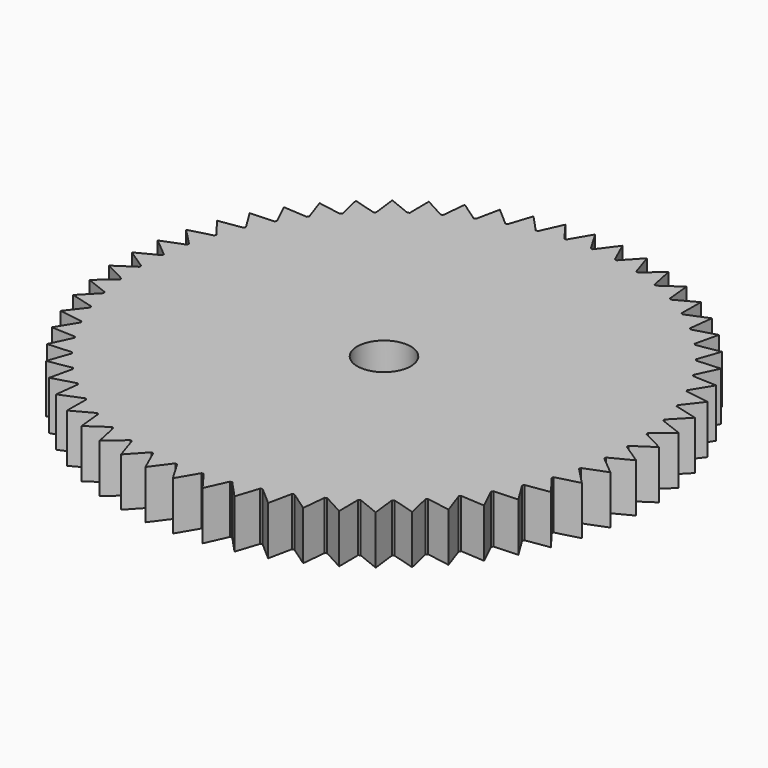
from build123d import *

# Parameters (mm, degrees)
F1_DEPTH = 5.08
F2_R     = 2.794
F3_DEPTH = 5.08
F4_R     = 4.445
F4_R_2   = 2.794
F5_DEPTH = 7.5692


with BuildPart() as f1:
    # F0 (on Top) → F1 (new body)
    with BuildSketch(Plane.XY):
        with BuildLine():
            Line((-18.931107, -19.985326), (-16.523704, -19.290599))
            ThreePointArc((-16.523704, -19.290599), (-17.467566, -18.440285), (-18.367732, -17.543842))
            Line((-18.367732, -17.543842), (-18.931107, -19.985326))
        make_face()
        with BuildLine():
            Line((-16.659338, -21.914984), (-14.341161, -20.964043))
            ThreePointArc((-14.341161, -20.964043), (-15.371425, -20.220764), (-16.363237, -19.426901))
            Line((-16.363237, -19.426901), (-16.659338, -21.914984))
        make_face()
        with BuildLine():
            Line((2.976319, -27.366797), (4.005343, -25.082209))
            ThreePointArc((4.005343, -25.082209), (2.746223, -25.251104), (1.480233, -25.356832))
            Line((1.480233, -25.356832), (2.976319, -27.366797))
        make_face()
        with BuildLine():
            ThreePointArc((-25.399782, 0.105271), (-25.362749, 1.375128), (-25.262269, 2.641546))
            Line((-25.262269, 2.641546), (-27.487796, 1.490345))
            Line((-27.487796, 1.490345), (-25.399782, 0.105271))
        make_face()
        with BuildLine():
            ThreePointArc((-20.156883, 15.455098), (-19.358916, 16.443612), (-18.512522, 17.39099))
            Line((-18.512522, 17.39099), (-20.980926, 17.821359))
            Line((-20.980926, 17.821359), (-20.156883, 15.455098))
        make_face()
        with BuildLine():
            ThreePointArc((-4.005343, 25.082209), (-2.746223, 25.251104), (-1.480233, 25.356832))
            Line((-1.480233, 25.356832), (-2.976319, 27.366797))
            Line((-2.976319, 27.366797), (-4.005343, 25.082209))
        make_face()
        with BuildLine():
            ThreePointArc((1.480233, 25.356832), (2.746223, 25.251104), (4.005343, 25.082209))
            Line((4.005343, 25.082209), (2.976319, 27.366797))
            Line((2.976319, 27.366797), (1.480233, 25.356832))
        make_face()
        with BuildLine():
            Line((8.789786, -26.087156), (9.303634, -23.634771))
            ThreePointArc((9.303634, -23.634771), (8.110259, -24.070391), (6.896595, -24.445797))
            Line((6.896595, -24.445797), (8.789786, -26.087156))
        make_face()
        with BuildLine():
            Line((-27.165527, -4.453562), (-24.828579, -5.357393))
            ThreePointArc((-24.828579, -5.357393), (-25.065394, -4.109263), (-25.239505, -2.850853))
            Line((-25.239505, -2.850853), (-27.165527, -4.453562))
        make_face()
        with BuildLine():
            ThreePointArc((-6.693728, 24.502123), (-5.460249, 24.806162), (-4.213111, 25.048147))
            Line((-4.213111, 25.048147), (-5.917743, 26.884575))
            Line((-5.917743, 26.884575), (-6.693728, 24.502123))
        make_face()
        with BuildLine():
            Line((14.192254, -23.587709), (14.166898, -21.082197))
            ThreePointArc((14.166898, -21.082197), (13.095068, -21.764172), (11.99048, -22.391703))
            Line((11.99048, -22.391703), (14.192254, -23.587709))
        make_face()
        with BuildLine():
            ThreePointArc((25.262269, 2.641546), (25.362749, 1.375128), (25.399782, 0.105271))
            Line((25.399782, 0.105271), (27.487796, 1.490345))
            Line((27.487796, 1.490345), (25.262269, 2.641546))
        make_face()
        with BuildLine():
            ThreePointArc((24.103797, 8.010429), (24.47417, 6.79522), (24.783319, 5.563012))
            Line((24.783319, 5.563012), (26.524767, 7.364565))
            Line((26.524767, 7.364565), (24.103797, 8.010429))
        make_face()
        with BuildLine():
            ThreePointArc((20.284297, 15.287488), (21.023301, 14.254151), (21.709713, 13.185158))
            Line((21.709713, 13.185158), (22.784762, 15.448452))
            Line((22.784762, 15.448452), (20.284297, 15.287488))
        make_face()
        with BuildLine():
            ThreePointArc((14.341161, 20.964043), (15.371425, 20.220764), (16.363237, 19.426901))
            Line((16.363237, 19.426901), (16.659338, 21.914984))
            Line((16.659338, 21.914984), (14.341161, 20.964043))
        make_face()
        with BuildLine():
            ThreePointArc((9.499223, 23.556841), (10.665183, 23.052416), (11.804464, 22.490323))
            Line((11.804464, 22.490323), (11.558778, 24.983889))
            Line((11.558778, 24.983889), (9.499223, 23.556841))
        make_face()
        with BuildLine():
            ThreePointArc((6.896595, 24.445797), (8.110259, 24.070391), (9.303634, 23.634771))
            Line((9.303634, 23.634771), (8.789786, 26.087156))
            Line((8.789786, 26.087156), (6.896595, 24.445797))
        make_face()
        with BuildLine():
            Line((-14.192254, -23.587709), (-11.99048, -22.391703))
            ThreePointArc((-11.99048, -22.391703), (-13.095068, -21.764172), (-14.166898, -21.082197))
            Line((-14.166898, -21.082197), (-14.192254, -23.587709))
        make_face()
        with BuildLine():
            Line((26.524767, -7.364565), (24.783319, -5.563012))
            ThreePointArc((24.783319, -5.563012), (24.47417, -6.79522), (24.103797, -8.010429))
            Line((24.103797, -8.010429), (26.524767, -7.364565))
        make_face()
        with BuildLine():
            Line((-11.558778, -24.983889), (-9.499223, -23.556841))
            ThreePointArc((-9.499223, -23.556841), (-10.665183, -23.052416), (-11.804464, -22.490323))
            Line((-11.804464, -22.490323), (-11.558778, -24.983889))
        make_face()
        with BuildLine():
            ThreePointArc((-21.709713, 13.185158), (-21.023301, 14.254151), (-20.284297, 15.287488))
            Line((-20.284297, 15.287488), (-22.784762, 15.448452))
            Line((-22.784762, 15.448452), (-21.709713, 13.185158))
        make_face()
        with BuildLine():
            ThreePointArc((-9.303634, 23.634771), (-8.110259, 24.070391), (-6.896595, 24.445797))
            Line((-6.896595, 24.445797), (-8.789786, 26.087156))
            Line((-8.789786, 26.087156), (-9.303634, 23.634771))
        make_face()
        with BuildLine():
            ThreePointArc((-1.27, 25.36823), (0, 25.4), (1.27, 25.36823))
            Line((1.27, 25.36823), (0, 27.528169))
            Line((0, 27.528169), (-1.27, 25.36823))
        make_face()
        with BuildLine():
            Line((16.659338, -21.914984), (16.363237, -19.426901))
            ThreePointArc((16.363237, -19.426901), (15.371425, -20.220764), (14.341161, -20.964043))
            Line((14.341161, -20.964043), (16.659338, -21.914984))
        make_face()
        with BuildLine():
            Line((-24.321469, -12.894427), (-21.818258, -13.004753))
            ThreePointArc((-21.818258, -13.004753), (-22.441206, -11.897574), (-23.008016, -10.760633))
            Line((-23.008016, -10.760633), (-24.321469, -12.894427))
        make_face()
        with BuildLine():
            ThreePointArc((24.828579, 5.357393), (25.065394, 4.109263), (25.239505, 2.850853))
            Line((25.239505, 2.850853), (27.165527, 4.453562))
            Line((27.165527, 4.453562), (24.828579, 5.357393))
        make_face()
        with BuildLine():
            Line((27.165527, -4.453562), (25.239505, -2.850853))
            ThreePointArc((25.239505, -2.850853), (25.065394, -4.109263), (24.828579, -5.357393))
            Line((24.828579, -5.357393), (27.165527, -4.453562))
        make_face()
        with BuildLine():
            ThreePointArc((21.818258, 13.004753), (22.441206, 11.897574), (23.008016, 10.760633))
            Line((23.008016, 10.760633), (24.321469, 12.894427))
            Line((24.321469, 12.894427), (21.818258, 13.004753))
        make_face()
        with BuildLine():
            Line((-8.789786, -26.087156), (-6.896595, -24.445797))
            ThreePointArc((-6.896595, -24.445797), (-8.110259, -24.070391), (-9.303634, -23.634771))
            Line((-9.303634, -23.634771), (-8.789786, -26.087156))
        make_face()
        with BuildLine():
            ThreePointArc((16.523704, 19.290599), (17.467566, 18.440285), (18.367732, 17.543842))
            Line((18.367732, 17.543842), (18.931107, 19.985326))
            Line((18.931107, 19.985326), (16.523704, 19.290599))
        make_face()
        with BuildLine():
            ThreePointArc((11.99048, 22.391703), (13.095068, 21.764172), (14.166898, 21.082197))
            Line((14.166898, 21.082197), (14.192254, 23.587709))
            Line((14.192254, 23.587709), (11.99048, 22.391703))
        make_face()
        with BuildLine():
            ThreePointArc((-11.804464, 22.490323), (-10.665183, 23.052416), (-9.499223, 23.556841))
            Line((-9.499223, 23.556841), (-11.558778, 24.983889))
            Line((-11.558778, 24.983889), (-11.804464, 22.490323))
        make_face()
        with BuildLine():
            Line((18.931107, -19.985326), (18.367732, -17.543842))
            ThreePointArc((18.367732, -17.543842), (17.467566, -18.440285), (16.523704, -19.290599))
            Line((16.523704, -19.290599), (18.931107, -19.985326))
        make_face()
        with BuildLine():
            Line((-22.784762, -15.448452), (-20.284297, -15.287488))
            ThreePointArc((-20.284297, -15.287488), (-21.023301, -14.254151), (-21.709713, -13.185158))
            Line((-21.709713, -13.185158), (-22.784762, -15.448452))
        make_face()
        with BuildLine():
            ThreePointArc((4.213111, 25.048147), (5.460249, 24.806162), (6.693728, 24.502123))
            Line((6.693728, 24.502123), (5.917743, 26.884575))
            Line((5.917743, 26.884575), (4.213111, 25.048147))
        make_face()
        with BuildLine():
            Line((-26.524767, -7.364565), (-24.103797, -8.010429))
            ThreePointArc((-24.103797, -8.010429), (-24.47417, -6.79522), (-24.783319, -5.563012))
            Line((-24.783319, -5.563012), (-26.524767, -7.364565))
        make_face()
        with BuildLine():
            Line((27.487796, -1.490345), (25.399782, -0.105271))
            ThreePointArc((25.399782, -0.105271), (25.362749, -1.375128), (25.262269, -2.641546))
            Line((25.262269, -2.641546), (27.487796, -1.490345))
        make_face()
        with BuildLine():
            Line((24.321469, -12.894427), (23.008016, -10.760633))
            ThreePointArc((23.008016, -10.760633), (22.441206, -11.897574), (21.818258, -13.004753))
            Line((21.818258, -13.004753), (24.321469, -12.894427))
        make_face()
        with BuildLine():
            ThreePointArc((-18.367732, 17.543842), (-17.467566, 18.440285), (-16.523704, 19.290599))
            Line((-16.523704, 19.290599), (-18.931107, 19.985326))
            Line((-18.931107, 19.985326), (-18.367732, 17.543842))
        make_face()
        with BuildLine():
            ThreePointArc((-24.783319, 5.563012), (-24.47417, 6.79522), (-24.103797, 8.010429))
            Line((-24.103797, 8.010429), (-26.524767, 7.364565))
            Line((-26.524767, 7.364565), (-24.783319, 5.563012))
        make_face()
        with BuildLine():
            Line((-2.976319, -27.366797), (-1.480233, -25.356832))
            ThreePointArc((-1.480233, -25.356832), (-2.746223, -25.251104), (-4.005343, -25.082209))
            Line((-4.005343, -25.082209), (-2.976319, -27.366797))
        make_face()
        with BuildLine():
            ThreePointArc((25.399782, -0.105271), (25.399945, -0.052636), (25.4, 0))
            ThreePointArc((25.4, 0), (25.399945, 0.052636), (25.399782, 0.105271))
            ThreePointArc((25.399782, 0.105271), (25.362749, 1.375128), (25.262269, 2.641546))
            ThreePointArc((25.262269, 2.641546), (25.251104, 2.746223), (25.239505, 2.850853))
            ThreePointArc((25.239505, 2.850853), (25.065394, 4.109263), (24.828579, 5.357393))
            ThreePointArc((24.828579, 5.357393), (24.806162, 5.460249), (24.783319, 5.563012))
            ThreePointArc((24.783319, 5.563012), (24.47417, 6.79522), (24.103797, 8.010429))
            ThreePointArc((24.103797, 8.010429), (24.070391, 8.110259), (24.036571, 8.209949))
            ThreePointArc((24.036571, 8.209949), (23.596009, 9.401509), (23.09642, 10.56955))
            ThreePointArc((23.09642, 10.56955), (23.052416, 10.665183), (23.008016, 10.760633))
            ThreePointArc((23.008016, 10.760633), (22.441206, 11.897574), (21.818258, 13.004753))
            ThreePointArc((21.818258, 13.004753), (21.764172, 13.095068), (21.709713, 13.185158))
            ThreePointArc((21.709713, 13.185158), (21.023301, 14.254151), (20.284297, 15.287488))
            ThreePointArc((20.284297, 15.287488), (20.220764, 15.371425), (20.156883, 15.455098))
            ThreePointArc((20.156883, 15.455098), (19.358916, 16.443612), (18.512522, 17.39099))
            ThreePointArc((18.512522, 17.39099), (18.440285, 17.467566), (18.367732, 17.543842))
            ThreePointArc((18.367732, 17.543842), (17.467566, 18.440285), (16.523704, 19.290599))
            ThreePointArc((16.523704, 19.290599), (16.443612, 19.358916), (16.363237, 19.426901))
            ThreePointArc((16.363237, 19.426901), (15.371425, 20.220764), (14.341161, 20.964043))
            ThreePointArc((14.341161, 20.964043), (14.254151, 21.023301), (14.166898, 21.082197))
            ThreePointArc((14.166898, 21.082197), (13.095068, 21.764172), (11.99048, 22.391703))
            ThreePointArc((11.99048, 22.391703), (11.897574, 22.441206), (11.804464, 22.490323))
            ThreePointArc((11.804464, 22.490323), (10.665183, 23.052416), (9.499223, 23.556841))
            ThreePointArc((9.499223, 23.556841), (9.401509, 23.596009), (9.303634, 23.634771))
            ThreePointArc((9.303634, 23.634771), (8.110259, 24.070391), (6.896595, 24.445797))
            ThreePointArc((6.896595, 24.445797), (6.79522, 24.47417), (6.693728, 24.502123))
            ThreePointArc((6.693728, 24.502123), (5.460249, 24.806162), (4.213111, 25.048147))
            ThreePointArc((4.213111, 25.048147), (4.109263, 25.065394), (4.005343, 25.082209))
            ThreePointArc((4.005343, 25.082209), (2.746223, 25.251104), (1.480233, 25.356832))
            ThreePointArc((1.480233, 25.356832), (1.375128, 25.362749), (1.27, 25.36823))
            ThreePointArc((1.27, 25.36823), (0, 25.4), (-1.27, 25.36823))
            ThreePointArc((-1.27, 25.36823), (-1.375128, 25.362749), (-1.480233, 25.356832))
            ThreePointArc((-1.480233, 25.356832), (-2.746223, 25.251104), (-4.005343, 25.082209))
            ThreePointArc((-4.005343, 25.082209), (-4.109263, 25.065394), (-4.213111, 25.048147))
            ThreePointArc((-4.213111, 25.048147), (-5.460249, 24.806162), (-6.693728, 24.502123))
            ThreePointArc((-6.693728, 24.502123), (-6.79522, 24.47417), (-6.896595, 24.445797))
            ThreePointArc((-6.896595, 24.445797), (-8.110259, 24.070391), (-9.303634, 23.634771))
            ThreePointArc((-9.303634, 23.634771), (-9.401509, 23.596009), (-9.499223, 23.556841))
            ThreePointArc((-9.499223, 23.556841), (-10.665183, 23.052416), (-11.804464, 22.490323))
            ThreePointArc((-11.804464, 22.490323), (-11.897574, 22.441206), (-11.99048, 22.391703))
            ThreePointArc((-11.99048, 22.391703), (-13.095068, 21.764172), (-14.166898, 21.082197))
            ThreePointArc((-14.166898, 21.082197), (-14.254151, 21.023301), (-14.341161, 20.964043))
            ThreePointArc((-14.341161, 20.964043), (-15.371425, 20.220764), (-16.363237, 19.426901))
            ThreePointArc((-16.363237, 19.426901), (-16.443612, 19.358916), (-16.523704, 19.290599))
            ThreePointArc((-16.523704, 19.290599), (-17.467566, 18.440285), (-18.367732, 17.543842))
            ThreePointArc((-18.367732, 17.543842), (-18.440285, 17.467566), (-18.512522, 17.39099))
            ThreePointArc((-18.512522, 17.39099), (-19.358916, 16.443612), (-20.156883, 15.455098))
            ThreePointArc((-20.156883, 15.455098), (-20.220764, 15.371425), (-20.284297, 15.287488))
            ThreePointArc((-20.284297, 15.287488), (-21.023301, 14.254151), (-21.709713, 13.185158))
            ThreePointArc((-21.709713, 13.185158), (-21.764172, 13.095068), (-21.818258, 13.004753))
            ThreePointArc((-21.818258, 13.004753), (-22.441206, 11.897574), (-23.008016, 10.760633))
            ThreePointArc((-23.008016, 10.760633), (-23.052416, 10.665183), (-23.09642, 10.56955))
            ThreePointArc((-23.09642, 10.56955), (-23.596009, 9.401509), (-24.036571, 8.209949))
            ThreePointArc((-24.036571, 8.209949), (-24.070391, 8.110259), (-24.103797, 8.010429))
            ThreePointArc((-24.103797, 8.010429), (-24.47417, 6.79522), (-24.783319, 5.563012))
            ThreePointArc((-24.783319, 5.563012), (-24.806162, 5.460249), (-24.828579, 5.357393))
            ThreePointArc((-24.828579, 5.357393), (-25.065394, 4.109263), (-25.239505, 2.850853))
            ThreePointArc((-25.239505, 2.850853), (-25.251104, 2.746223), (-25.262269, 2.641546))
            ThreePointArc((-25.262269, 2.641546), (-25.362749, 1.375128), (-25.399782, 0.105271))
            ThreePointArc((-25.399782, 0.105271), (-25.4, 0), (-25.399782, -0.105271))
            ThreePointArc((-25.399782, -0.105271), (-25.362749, -1.375128), (-25.262269, -2.641546))
            ThreePointArc((-25.262269, -2.641546), (-25.251104, -2.746223), (-25.239505, -2.850853))
            ThreePointArc((-25.239505, -2.850853), (-25.065394, -4.109263), (-24.828579, -5.357393))
            ThreePointArc((-24.828579, -5.357393), (-24.806162, -5.460249), (-24.783319, -5.563012))
            ThreePointArc((-24.783319, -5.563012), (-24.47417, -6.79522), (-24.103797, -8.010429))
            ThreePointArc((-24.103797, -8.010429), (-24.070391, -8.110259), (-24.036571, -8.209949))
            ThreePointArc((-24.036571, -8.209949), (-23.596009, -9.401509), (-23.09642, -10.56955))
            ThreePointArc((-23.09642, -10.56955), (-23.052416, -10.665183), (-23.008016, -10.760633))
            ThreePointArc((-23.008016, -10.760633), (-22.441206, -11.897574), (-21.818258, -13.004753))
            ThreePointArc((-21.818258, -13.004753), (-21.764172, -13.095068), (-21.709713, -13.185158))
            ThreePointArc((-21.709713, -13.185158), (-21.023301, -14.254151), (-20.284297, -15.287488))
            ThreePointArc((-20.284297, -15.287488), (-20.220764, -15.371425), (-20.156883, -15.455098))
            ThreePointArc((-20.156883, -15.455098), (-19.358916, -16.443612), (-18.512522, -17.39099))
            ThreePointArc((-18.512522, -17.39099), (-18.440285, -17.467566), (-18.367732, -17.543842))
            ThreePointArc((-18.367732, -17.543842), (-17.467566, -18.440285), (-16.523704, -19.290599))
            ThreePointArc((-16.523704, -19.290599), (-16.443612, -19.358916), (-16.363237, -19.426901))
            ThreePointArc((-16.363237, -19.426901), (-15.371425, -20.220764), (-14.341161, -20.964043))
            ThreePointArc((-14.341161, -20.964043), (-14.254151, -21.023301), (-14.166898, -21.082197))
            ThreePointArc((-14.166898, -21.082197), (-13.095068, -21.764172), (-11.99048, -22.391703))
            ThreePointArc((-11.99048, -22.391703), (-11.897574, -22.441206), (-11.804464, -22.490323))
            ThreePointArc((-11.804464, -22.490323), (-10.665183, -23.052416), (-9.499223, -23.556841))
            ThreePointArc((-9.499223, -23.556841), (-9.401509, -23.596009), (-9.303634, -23.634771))
            ThreePointArc((-9.303634, -23.634771), (-8.110259, -24.070391), (-6.896595, -24.445797))
            ThreePointArc((-6.896595, -24.445797), (-6.79522, -24.47417), (-6.693728, -24.502123))
            ThreePointArc((-6.693728, -24.502123), (-5.460249, -24.806162), (-4.213111, -25.048147))
            ThreePointArc((-4.213111, -25.048147), (-4.109263, -25.065394), (-4.005343, -25.082209))
            ThreePointArc((-4.005343, -25.082209), (-2.746223, -25.251104), (-1.480233, -25.356832))
            ThreePointArc((-1.480233, -25.356832), (-1.375128, -25.362749), (-1.27, -25.36823))
            ThreePointArc((-1.27, -25.36823), (0, -25.4), (1.27, -25.36823))
            ThreePointArc((1.27, -25.36823), (1.375128, -25.362749), (1.480233, -25.356832))
            ThreePointArc((1.480233, -25.356832), (2.746223, -25.251104), (4.005343, -25.082209))
            ThreePointArc((4.005343, -25.082209), (4.109263, -25.065394), (4.213111, -25.048147))
            ThreePointArc((4.213111, -25.048147), (5.460249, -24.806162), (6.693728, -24.502123))
            ThreePointArc((6.693728, -24.502123), (6.79522, -24.47417), (6.896595, -24.445797))
            ThreePointArc((6.896595, -24.445797), (8.110259, -24.070391), (9.303634, -23.634771))
            ThreePointArc((9.303634, -23.634771), (9.401509, -23.596009), (9.499223, -23.556841))
            ThreePointArc((9.499223, -23.556841), (10.665183, -23.052416), (11.804464, -22.490323))
            ThreePointArc((11.804464, -22.490323), (11.897574, -22.441206), (11.99048, -22.391703))
            ThreePointArc((11.99048, -22.391703), (13.095068, -21.764172), (14.166898, -21.082197))
            ThreePointArc((14.166898, -21.082197), (14.254151, -21.023301), (14.341161, -20.964043))
            ThreePointArc((14.341161, -20.964043), (15.371425, -20.220764), (16.363237, -19.426901))
            ThreePointArc((16.363237, -19.426901), (16.443612, -19.358916), (16.523704, -19.290599))
            ThreePointArc((16.523704, -19.290599), (17.467566, -18.440285), (18.367732, -17.543842))
            ThreePointArc((18.367732, -17.543842), (18.440285, -17.467566), (18.512522, -17.39099))
            ThreePointArc((18.512522, -17.39099), (19.358916, -16.443612), (20.156883, -15.455098))
            ThreePointArc((20.156883, -15.455098), (20.220764, -15.371425), (20.284297, -15.287488))
            ThreePointArc((20.284297, -15.287488), (21.023301, -14.254151), (21.709713, -13.185158))
            ThreePointArc((21.709713, -13.185158), (21.764172, -13.095068), (21.818258, -13.004753))
            ThreePointArc((21.818258, -13.004753), (22.441206, -11.897574), (23.008016, -10.760633))
            ThreePointArc((23.008016, -10.760633), (23.052416, -10.665183), (23.09642, -10.56955))
            ThreePointArc((23.09642, -10.56955), (23.596009, -9.401509), (24.036571, -8.209949))
            ThreePointArc((24.036571, -8.209949), (24.070391, -8.110259), (24.103797, -8.010429))
            ThreePointArc((24.103797, -8.010429), (24.47417, -6.79522), (24.783319, -5.563012))
            ThreePointArc((24.783319, -5.563012), (24.806162, -5.460249), (24.828579, -5.357393))
            ThreePointArc((24.828579, -5.357393), (25.065394, -4.109263), (25.239505, -2.850853))
            ThreePointArc((25.239505, -2.850853), (25.251104, -2.746223), (25.262269, -2.641546))
            ThreePointArc((25.262269, -2.641546), (25.362749, -1.375128), (25.399782, -0.105271))
        make_face()
        with BuildLine():
            ThreePointArc((-25.239505, 2.850853), (-25.065394, 4.109263), (-24.828579, 5.357393))
            Line((-24.828579, 5.357393), (-27.165527, 4.453562))
            Line((-27.165527, 4.453562), (-25.239505, 2.850853))
        make_face()
        with BuildLine():
            Line((0, -27.528169), (1.27, -25.36823))
            ThreePointArc((1.27, -25.36823), (0, -25.4), (-1.27, -25.36823))
            Line((-1.27, -25.36823), (0, -27.528169))
        make_face()
        with BuildLine():
            ThreePointArc((-14.166898, 21.082197), (-13.095068, 21.764172), (-11.99048, 22.391703))
            Line((-11.99048, 22.391703), (-14.192254, 23.587709))
            Line((-14.192254, 23.587709), (-14.166898, 21.082197))
        make_face()
        with BuildLine():
            ThreePointArc((-23.008016, 10.760633), (-22.441206, 11.897574), (-21.818258, 13.004753))
            Line((-21.818258, 13.004753), (-24.321469, 12.894427))
            Line((-24.321469, 12.894427), (-23.008016, 10.760633))
        make_face()
        with BuildLine():
            Line((-27.487796, -1.490345), (-25.262269, -2.641546))
            ThreePointArc((-25.262269, -2.641546), (-25.362749, -1.375128), (-25.399782, -0.105271))
            Line((-25.399782, -0.105271), (-27.487796, -1.490345))
        make_face()
        with BuildLine():
            Line((22.784762, -15.448452), (21.709713, -13.185158))
            ThreePointArc((21.709713, -13.185158), (21.023301, -14.254151), (20.284297, -15.287488))
            Line((20.284297, -15.287488), (22.784762, -15.448452))
        make_face()
        with BuildLine():
            Line((5.917743, -26.884575), (6.693728, -24.502123))
            ThreePointArc((6.693728, -24.502123), (5.460249, -24.806162), (4.213111, -25.048147))
            Line((4.213111, -25.048147), (5.917743, -26.884575))
        make_face()
        with BuildLine():
            ThreePointArc((-16.363237, 19.426901), (-15.371425, 20.220764), (-14.341161, 20.964043))
            Line((-14.341161, 20.964043), (-16.659338, 21.914984))
            Line((-16.659338, 21.914984), (-16.363237, 19.426901))
        make_face()
        with BuildLine():
            Line((-5.917743, -26.884575), (-4.213111, -25.048147))
            ThreePointArc((-4.213111, -25.048147), (-5.460249, -24.806162), (-6.693728, -24.502123))
            Line((-6.693728, -24.502123), (-5.917743, -26.884575))
        make_face()
        with BuildLine():
            Line((11.558778, -24.983889), (11.804464, -22.490323))
            ThreePointArc((11.804464, -22.490323), (10.665183, -23.052416), (9.499223, -23.556841))
            Line((9.499223, -23.556841), (11.558778, -24.983889))
        make_face()
        with BuildLine():
            Line((-20.980926, -17.821359), (-18.512522, -17.39099))
            ThreePointArc((-18.512522, -17.39099), (-19.358916, -16.443612), (-20.156883, -15.455098))
            Line((-20.156883, -15.455098), (-20.980926, -17.821359))
        make_face()
        with BuildLine():
            Line((-25.573028, -10.189226), (-23.09642, -10.56955))
            ThreePointArc((-23.09642, -10.56955), (-23.596009, -9.401509), (-24.036571, -8.209949))
            Line((-24.036571, -8.209949), (-25.573028, -10.189226))
        make_face()
        with BuildLine():
            ThreePointArc((23.09642, 10.56955), (23.596009, 9.401509), (24.036571, 8.209949))
            Line((24.036571, 8.209949), (25.573028, 10.189226))
            Line((25.573028, 10.189226), (23.09642, 10.56955))
        make_face()
        with BuildLine():
            ThreePointArc((18.512522, 17.39099), (19.358916, 16.443612), (20.156883, 15.455098))
            Line((20.156883, 15.455098), (20.980926, 17.821359))
            Line((20.980926, 17.821359), (18.512522, 17.39099))
        make_face()
        with BuildLine():
            Line((25.573028, -10.189226), (24.036571, -8.209949))
            ThreePointArc((24.036571, -8.209949), (23.596009, -9.401509), (23.09642, -10.56955))
            Line((23.09642, -10.56955), (25.573028, -10.189226))
        make_face()
        with BuildLine():
            Line((20.980926, -17.821359), (20.156883, -15.455098))
            ThreePointArc((20.156883, -15.455098), (19.358916, -16.443612), (18.512522, -17.39099))
            Line((18.512522, -17.39099), (20.980926, -17.821359))
        make_face()
        with BuildLine():
            ThreePointArc((-24.036571, 8.209949), (-23.596009, 9.401509), (-23.09642, 10.56955))
            Line((-23.09642, 10.56955), (-25.573028, 10.189226))
            Line((-25.573028, 10.189226), (-24.036571, 8.209949))
        make_face()
    extrude(amount=F1_DEPTH)

    # F2 (on face) → F3 (cut)
    with BuildSketch(Plane.XY.offset(5.08)):
        Circle(F2_R)
    extrude(amount=-F3_DEPTH, mode=Mode.SUBTRACT)

    # F4 (on face) → F5 (join)
    with BuildSketch(Plane(origin=(0, 0, 0), x_dir=(1, 0, 0), z_dir=(0, 0, -1))):
        Circle(F4_R)
        Circle(F4_R_2, mode=Mode.SUBTRACT)
    extrude(amount=F5_DEPTH)


solid = f1.part
